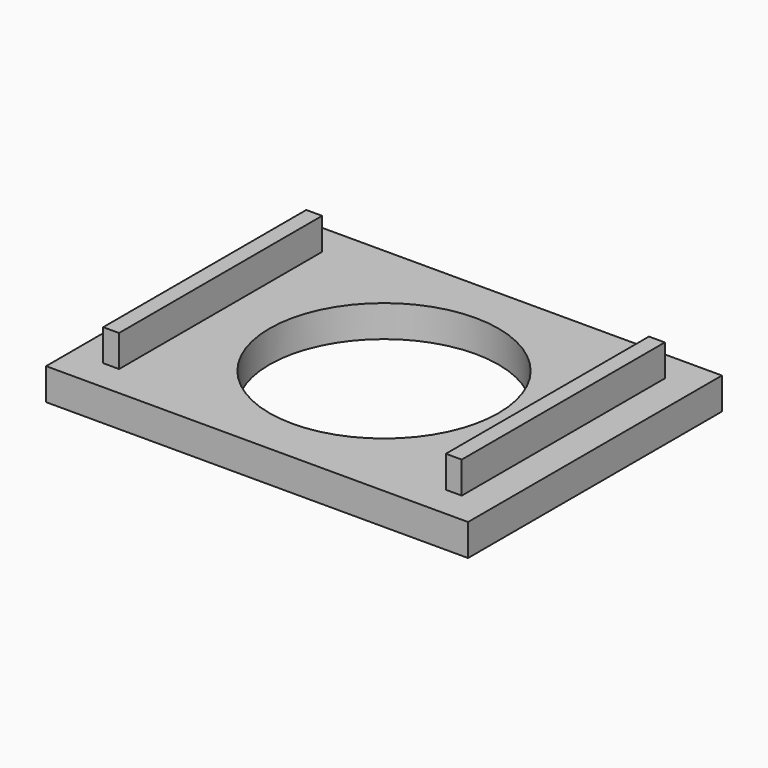
from build123d import *

# Parameters (mm, degrees)
F0_W     = 168.91
F0_H     = 127
F1_DEPTH = 12.7
F2_W     = 6.35
F2_H     = 101.6
F3_DEPTH = 12.7
F4_R     = 45.84191
F5_DEPTH = 25.4


with BuildPart() as f1:
    # F0 (on Top) → F1 (new body)
    with BuildSketch(Plane.XY):
        Rectangle(F0_W, F0_H)
    extrude(amount=F1_DEPTH)

    # F2 (on face) → F3 (join)
    with BuildSketch(Plane.XY.offset(12.7)):
        with Locations((68.58, 0)):
            Rectangle(F2_W, F2_H)
        with Locations((-68.58, 0)):
            Rectangle(F2_W, F2_H)
    extrude(amount=F3_DEPTH)

    # F4 (on Top) → F5 (cut)
    with BuildSketch(Plane.XY):
        Circle(F4_R)
    extrude(amount=F5_DEPTH, mode=Mode.SUBTRACT)


solid = f1.part
